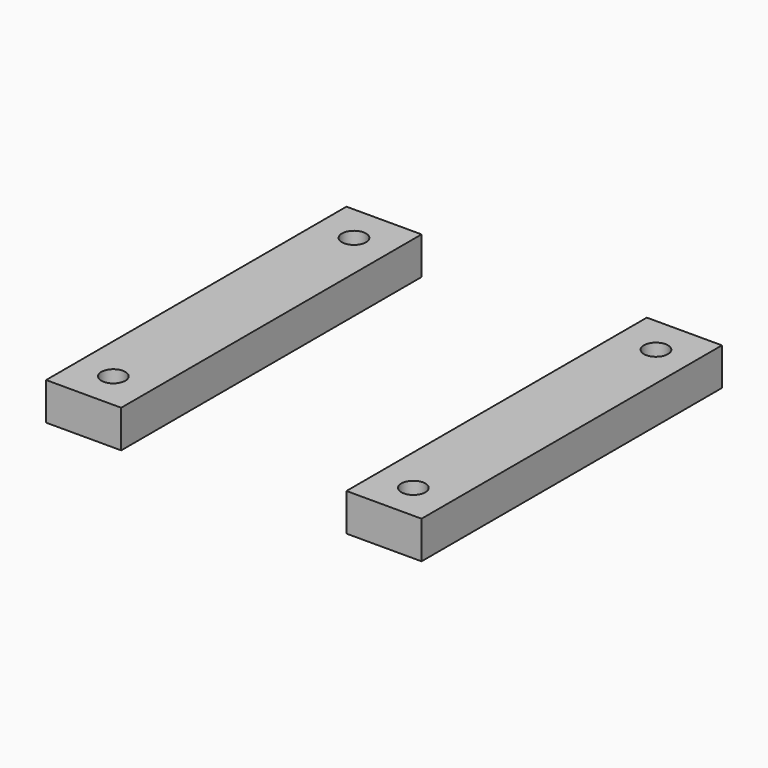
from build123d import *

# Parameters (mm, degrees)
F0_W     = 10
F0_H     = 50
F0_R     = 1.6
F1_DEPTH = 5


with BuildPart() as f1:
    # F0 (on Top) → F1 (new body)
    with BuildSketch(Plane.XY):
        with Locations((-78.238491, 0)):
            Rectangle(F0_W, F0_H)
        with Locations((-78.299507, -19.978345)):
            Circle(F0_R, mode=Mode.SUBTRACT)
        with Locations((-78.238491, 20)):
            Circle(F0_R, mode=Mode.SUBTRACT)
        with Locations((-38.238491, 0)):
            Rectangle(F0_W, F0_H)
        with Locations((-38.241431, -20.106735)):
            Circle(F0_R, mode=Mode.SUBTRACT)
        with Locations((-37.984648, 19.951343)):
            Circle(F0_R, mode=Mode.SUBTRACT)
    extrude(amount=F1_DEPTH)


solid = f1.part
